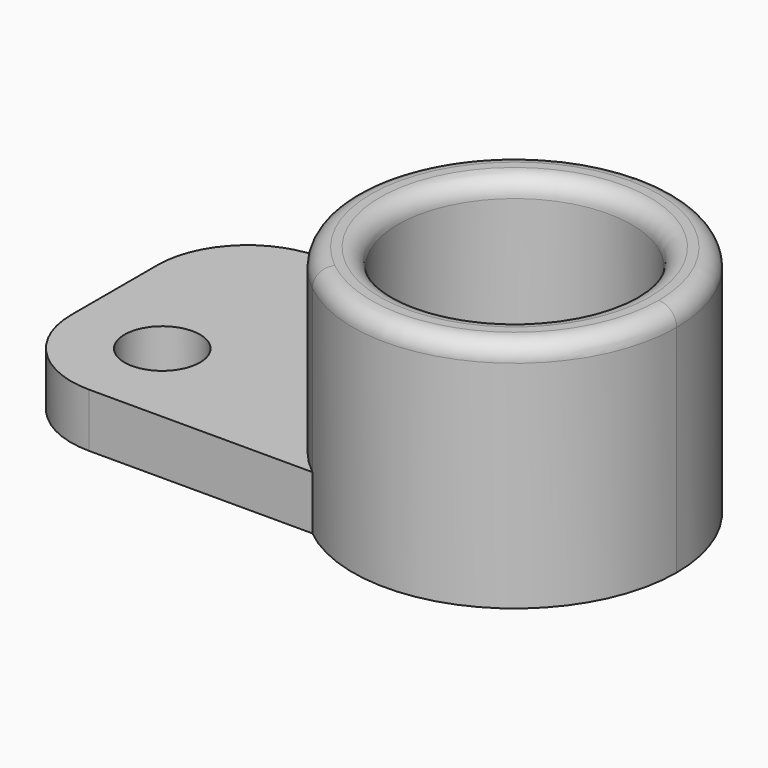
from build123d import *

# Parameters (mm, degrees)
F0_R     = 2.1
F1_DEPTH = 3
F2_R     = 5
F3_R     = 6.5
F4_DEPTH = 10
F5_R     = 1


with BuildPart() as f1:
    # F0 (on Top) → F1 (new body)
    with BuildSketch(Plane.XY):
        with BuildLine():
            ThreePointArc((-5.656854, -7), (-8.485281, 3), (0, 9))
            Line((0, 9), (-23.064781, 9))
            Line((-23.064781, 9), (-23.064781, -7))
            Line((-23.064781, -7), (-5.656854, -7))
        make_face()
        with Locations((-18, -2)):
            Circle(F0_R, mode=Mode.SUBTRACT)
        with BuildLine():
            ThreePointArc((0, -6), (-6, 0), (0, 6))
            Line((0, 6), (0, 9))
            ThreePointArc((0, 9), (-8.485281, 3), (-5.656854, -7))
            Line((-5.656854, -7), (0, -7))
            Line((0, -7), (0, -6))
        make_face()
        with BuildLine():
            ThreePointArc((0, 6), (4.242641, 4.242641), (6, 0))
            ThreePointArc((6, 0), (4.242641, -4.242641), (0, -6))
            Line((0, -6), (0, -7))
            Line((0, -7), (-5.656854, -7))
            ThreePointArc((-5.656854, -7), (3.87868, -8.12132), (9, 0))
            ThreePointArc((9, 0), (6.363961, 6.363961), (0, 9))
            Line((0, 9), (0, 6))
        make_face()
    extrude(amount=F1_DEPTH)

    # F2
    f2_edges = [f1.edges().sort_by_distance(p)[0] for p in [
        (-23.064781, 9, 1.5),
        (-23.064781, -7, 1.5),
    ]]
    fillet(f2_edges, radius=F2_R)

    # F3 (on face) → F4 (join)
    with BuildSketch(Plane.XY.offset(3)):
        with BuildLine():
            ThreePointArc((-5.656854, -7), (3.87868, -8.12132), (9, 0))
            ThreePointArc((9, 0), (6.363961, 6.363961), (0, 9))
            ThreePointArc((0, 9), (-8.485281, 3), (-5.656854, -7))
        make_face()
        Circle(F3_R, mode=Mode.SUBTRACT)
    extrude(amount=F4_DEPTH)

    # F5
    f5_edges = [f1.edges().sort_by_distance(p)[0] for p in [
        (0, -9, 13),
        (-6.5, 0, 13),
    ]]
    fillet(f5_edges, radius=F5_R)


solid = f1.part
